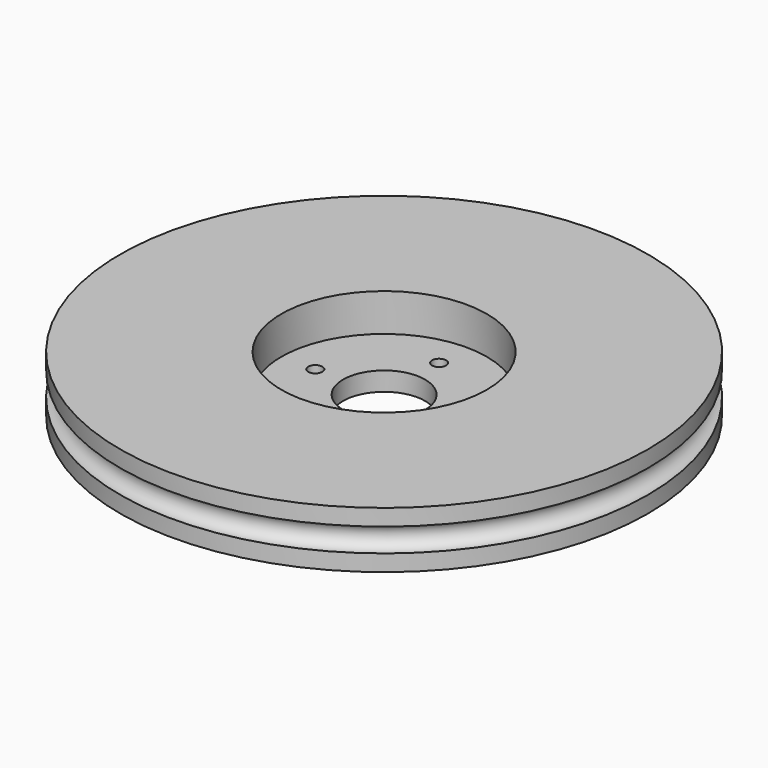
from build123d import *

# Parameters (mm, degrees)
CYLINDER003_R     = 0.75
CYLINDER003_DEPTH = 10
ARRAY_COUNT       = 4
CYLINDER002_R     = 4.35
CYLINDER002_DEPTH = 10
CYLINDER001_R     = 10.9
CYLINDER001_DEPTH = 10
TORUS_R           = 1.25
CYLINDER_R        = 28
CYLINDER_DEPTH    = 6


with BuildPart() as array:
    # Cylinder003 → Cylinder003 (new body)
    with BuildSketch(Plane(origin=(7.3, 0, -5), x_dir=(1, 0, 0), z_dir=(0, 0, 1))):
        Circle(CYLINDER003_R)
    extrude(amount=CYLINDER003_DEPTH)

    # Array: Array ×4 about axis
    array_axis = Axis((0, 0, 0), (0, 0, 1))


with BuildPart() as array_1:
    add(array.part)
    for i in range(1, ARRAY_COUNT):
        add(array.part.rotate(array_axis, i * 360 / ARRAY_COUNT))


with BuildPart() as hueco_eje:
    # Cylinder002 → Cylinder002 (new body)
    with BuildSketch(Plane.XY.offset(-10)):
        Circle(CYLINDER002_R)
    extrude(amount=CYLINDER002_DEPTH)


with BuildPart() as cylinder:
    # Cylinder001 → Cylinder001 (new body)
    with BuildSketch(Plane.XY.offset(-1)):
        Circle(CYLINDER001_R)
    extrude(amount=CYLINDER001_DEPTH)


with BuildPart() as obj1:
    # Torus → Torus (revolve)
    with BuildSketch(Plane.XZ):
        with Locations((28, 0)):
            Circle(TORUS_R)
    revolve(axis=Axis((0, 0, 0), (0, 0, 1)))


with BuildPart() as cut003:
    # Cylinder → Cylinder (new body)
    with BuildSketch(Plane.XY.offset(-3)):
        Circle(CYLINDER_R)
    extrude(amount=CYLINDER_DEPTH)

    # Cut: cut obj1
    add(obj1.part, mode=Mode.SUBTRACT)

    # Cut001: cut Cylinder
    add(cylinder.part, mode=Mode.SUBTRACT)

    # Cut002: cut hueco_eje
    add(hueco_eje.part, mode=Mode.SUBTRACT)

    # Cut003: cut Array
    add(array_1.part, mode=Mode.SUBTRACT)


solid = cut003.part
